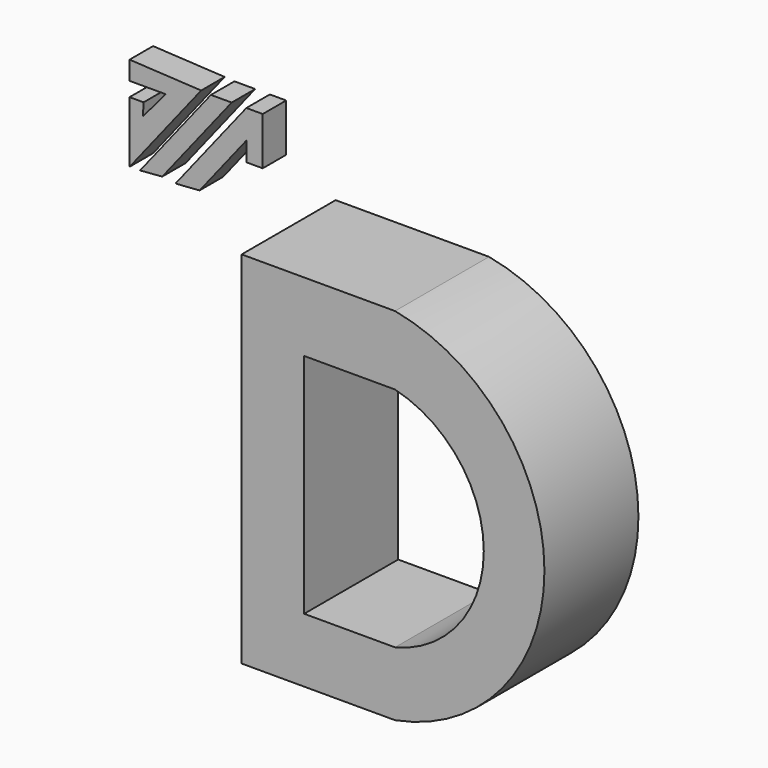
from build123d import *

# Parameters (mm, degrees)
F1_DEPTH = 25.4
F3_DEPTH = 6.35


with BuildPart() as f1:
    # F0 (on Front) → F1 (new body)
    with BuildSketch(Plane.XZ):
        with BuildLine():
            Line((0, 35.115499), (-33.159699, 35.115499))
            Line((-33.159699, 35.115499), (-33.159699, -42.760901))
            Line((-33.159699, -42.760901), (0, -42.760901))
            ThreePointArc((0, -42.760901), (32.301346, -3.822701), (0, 35.115499))
        make_face()
        with BuildLine():
            Line((-19.6469, -28.8925), (-19.6469, 20.1803))
            Line((-19.6469, 20.1803), (0, 20.1803))
            ThreePointArc((0, 20.1803), (19.188242, -4.3561), (0, -28.8925))
            Line((0, -28.8925), (-19.6469, -28.8925))
        make_face(mode=Mode.SUBTRACT)
    extrude(amount=F1_DEPTH)


with BuildPart() as f3:
    # F2 (on Front) → F3 (new body)
    with BuildSketch(Plane.XZ):
        Polygon((-57.153762, 50.764567), (-72.631299, 51.60002), (-72.631299, 47.5615), (-69.430903, 47.5615), (-64.8081, 47.5615), (-69.74456, 41.7507), (-69.598089, 44.464219), (-72.631299, 44.464219), (-72.631299, 31.2039), align=None)
        Polygon((-55.043463, 50.61043), (-70.362989, 31.249458), (-65.577642, 31.628876), (-50.558333, 50.61043), align=None)
        Polygon((-47.3837, 50.61043), (-62.703226, 31.249458), (-57.495244, 31.628876), (-47.3837, 44.407948), (-47.3837, 40.271699), (-43.847863, 40.271699), (-43.847863, 50.61043), align=None)
    extrude(amount=F3_DEPTH)


solid = Compound([f1.part, f3.part])
